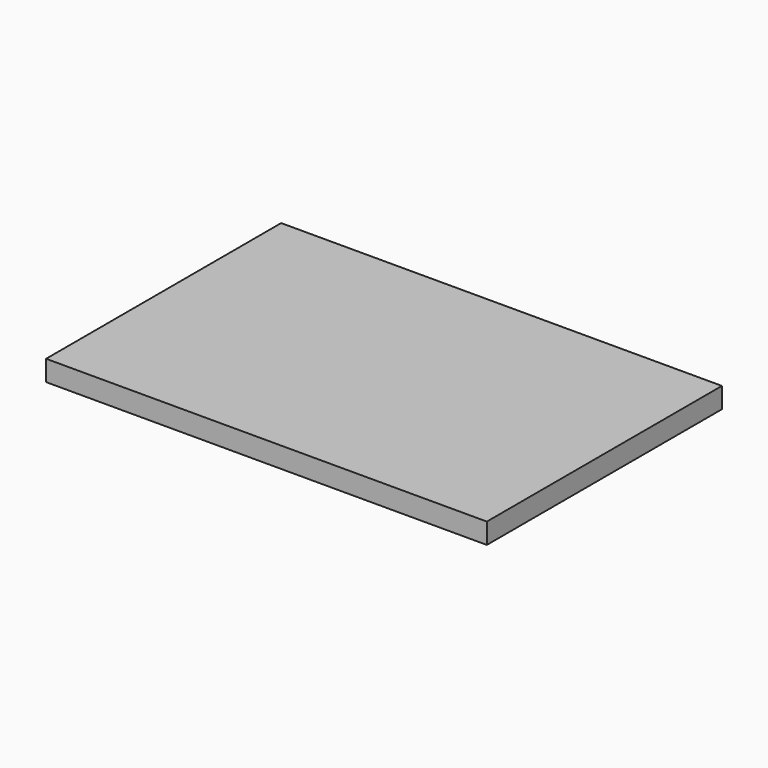
from build123d import *

# Parameters (mm, degrees)
SKETCH_W  = 300
SKETCH_H  = 200
PAD_DEPTH = 14


with BuildPart() as part:
    # Sketch → Pad (new body)
    with BuildSketch(Plane.XY):
        with Locations((150, 100)):
            Rectangle(SKETCH_W, SKETCH_H)
    extrude(amount=PAD_DEPTH)


solid = part.part
